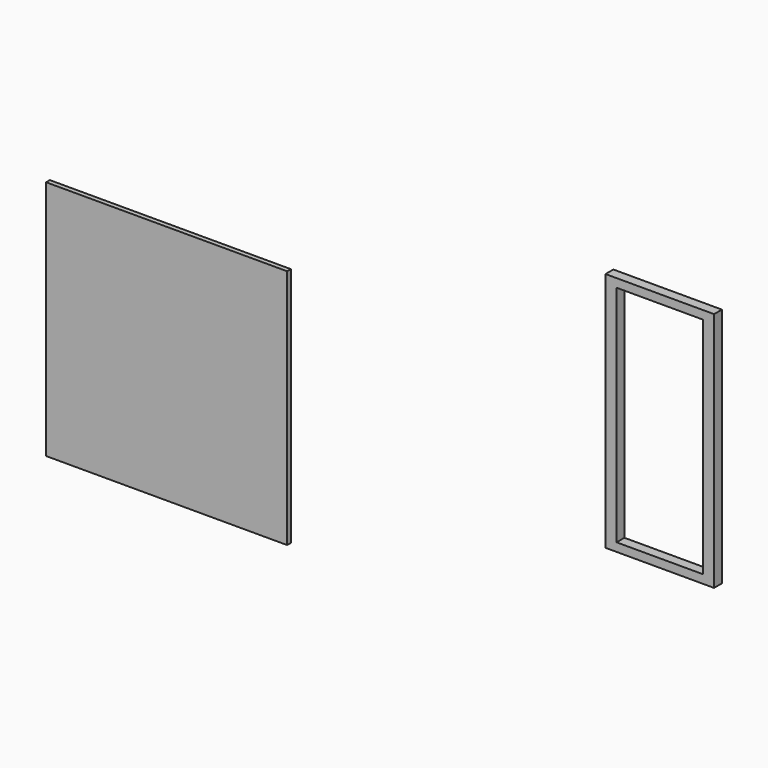
from build123d import *

# Parameters (mm, degrees)
F0_W     = 1960
F0_H     = 1960
F1_DEPTH = 38
F3_DEPTH = 80


with BuildPart() as f1:
    # F0 (on Front) → F1 (new body)
    with BuildSketch(Plane.XZ):
        with Locations((-3888.036987, -980)):
            Rectangle(F0_W, F0_H)
    extrude(amount=F1_DEPTH)


with BuildPart() as f3:
    # F2 (on Front) → F3 (new body)
    with BuildSketch(Plane.XZ):
        Polygon((-285.374122, 850.20864), (-285.374122, -1109.79136), (-195.524856, -1041.037382), (-195.524856, 781.454662), align=None)
        Polygon((-195.524856, -1041.037382), (-285.374122, -1109.79136), (597.228179, -1109.79136), (507.37892, -1041.037382), align=None)
        Polygon((-195.524856, 850.20864), (-285.374122, 850.20864), (-195.524856, 781.454662), (507.37892, 781.454662), (597.228179, 850.20864), align=None)
        Polygon((507.37892, -1041.037382), (597.228179, -1109.79136), (597.228179, 850.20864), (507.37892, 781.454662), align=None)
    extrude(amount=F3_DEPTH)


solid = Compound([f1.part, f3.part])
